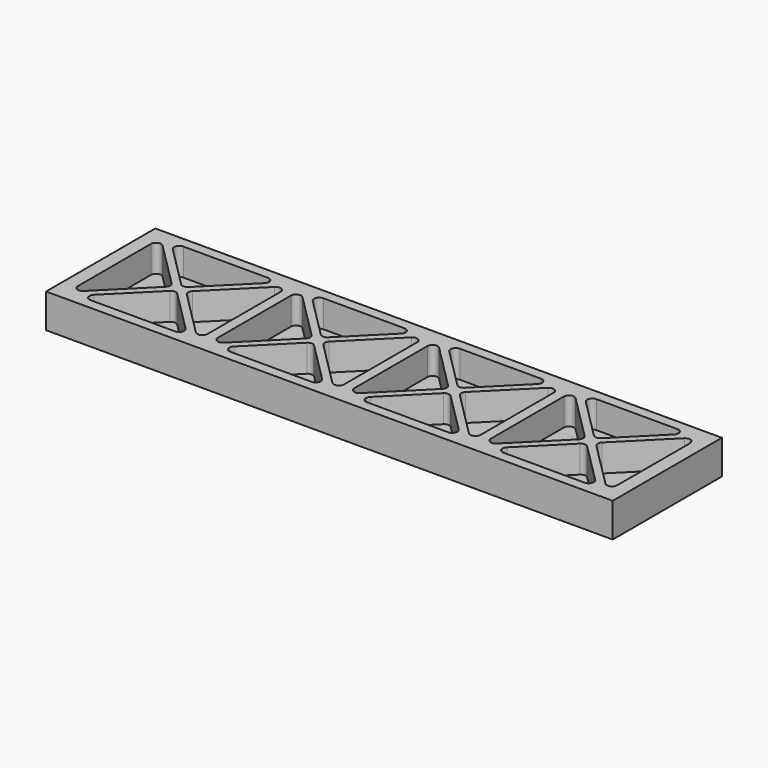
from build123d import *

# Parameters (mm, degrees)
F0_W     = 210.82
F0_H     = 50.8
F1_DEPTH = 12.7
F3_DEPTH = 10.16


with BuildPart() as f1:
    # F0 (on Top) → F1 (new body)
    with BuildSketch(Plane.XY):
        with Locations((105.41, 25.4)):
            Rectangle(F0_W, F0_H)
    extrude(amount=F1_DEPTH)

    # F2 (on face) → F3 (cut)
    with BuildSketch(Plane.XY.offset(12.7)):
        with BuildLine():
            ThreePointArc((8.332038, 43.737962), (6.255988, 44.150914), (5.08, 42.390923))
            Line((5.08, 42.390923), (5.08, 8.409077))
            ThreePointArc((5.08, 8.409077), (6.255988, 6.649086), (8.332038, 7.062038))
            Line((8.332038, 7.062038), (25.322962, 24.052962))
            ThreePointArc((25.322962, 24.052962), (25.880923, 25.4), (25.322962, 26.747038))
            Line((25.322962, 26.747038), (8.332038, 43.737962))
        make_face()
        with BuildLine():
            Line((50.087962, 43.737962), (33.097038, 26.747038))
            ThreePointArc((33.097038, 26.747038), (32.539077, 25.4), (33.097038, 24.052962))
            Line((33.097038, 24.052962), (50.087962, 7.062038))
            ThreePointArc((50.087962, 7.062038), (52.164012, 6.649086), (53.34, 8.409077))
            Line((53.34, 8.409077), (53.34, 42.390923))
            ThreePointArc((53.34, 42.390923), (52.164012, 44.150914), (50.087962, 43.737962))
        make_face()
        with BuildLine():
            ThreePointArc((60.402038, 43.737962), (58.325988, 44.150914), (57.15, 42.390923))
            Line((57.15, 42.390923), (57.15, 8.409077))
            ThreePointArc((57.15, 8.409077), (58.325988, 6.649086), (60.402038, 7.062038))
            Line((60.402038, 7.062038), (77.392962, 24.052962))
            ThreePointArc((77.392962, 24.052962), (77.950923, 25.4), (77.392962, 26.747038))
            Line((77.392962, 26.747038), (60.402038, 43.737962))
        make_face()
        with BuildLine():
            Line((104.14, 8.409077), (104.14, 42.390923))
            ThreePointArc((104.14, 42.390923), (102.964012, 44.150914), (100.887962, 43.737962))
            Line((100.887962, 43.737962), (83.897038, 26.747038))
            ThreePointArc((83.897038, 26.747038), (83.339077, 25.4), (83.897038, 24.052962))
            Line((83.897038, 24.052962), (100.887962, 7.062038))
            ThreePointArc((100.887962, 7.062038), (102.964012, 6.649086), (104.14, 8.409077))
        make_face()
        with BuildLine():
            ThreePointArc((111.202038, 43.737962), (109.125988, 44.150914), (107.95, 42.390923))
            Line((107.95, 42.390923), (107.95, 8.409077))
            ThreePointArc((107.95, 8.409077), (109.125988, 6.649086), (111.202038, 7.062038))
            Line((111.202038, 7.062038), (128.192962, 24.052962))
            ThreePointArc((128.192962, 24.052962), (128.750923, 25.4), (128.192962, 26.747038))
            Line((128.192962, 26.747038), (111.202038, 43.737962))
        make_face()
        with BuildLine():
            Line((154.94, 8.409077), (154.94, 42.390923))
            ThreePointArc((154.94, 42.390923), (153.764012, 44.150914), (151.687962, 43.737962))
            Line((151.687962, 43.737962), (134.697038, 26.747038))
            ThreePointArc((134.697038, 26.747038), (134.139077, 25.4), (134.697038, 24.052962))
            Line((134.697038, 24.052962), (151.687962, 7.062038))
            ThreePointArc((151.687962, 7.062038), (153.764012, 6.649086), (154.94, 8.409077))
        make_face()
        with BuildLine():
            ThreePointArc((162.002038, 43.737962), (159.925988, 44.150914), (158.75, 42.390923))
            Line((158.75, 42.390923), (158.75, 8.409077))
            ThreePointArc((158.75, 8.409077), (159.925988, 6.649086), (162.002038, 7.062038))
            Line((162.002038, 7.062038), (178.992962, 24.052962))
            ThreePointArc((178.992962, 24.052962), (179.550923, 25.4), (178.992962, 26.747038))
            Line((178.992962, 26.747038), (162.002038, 43.737962))
        make_face()
        with BuildLine():
            Line((205.74, 8.409077), (205.74, 42.390923))
            ThreePointArc((205.74, 42.390923), (204.564012, 44.150914), (202.487962, 43.737962))
            Line((202.487962, 43.737962), (185.497038, 26.747038))
            ThreePointArc((185.497038, 26.747038), (184.939077, 25.4), (185.497038, 24.052962))
            Line((185.497038, 24.052962), (202.487962, 7.062038))
            ThreePointArc((202.487962, 7.062038), (204.564012, 6.649086), (205.74, 8.409077))
        make_face()
        with BuildLine():
            Line((44.930923, 46.99), (13.489077, 46.99))
            ThreePointArc((13.489077, 46.99), (11.729086, 45.814012), (12.142038, 43.737962))
            Line((12.142038, 43.737962), (27.862962, 28.017038))
            ThreePointArc((27.862962, 28.017038), (29.21, 27.459077), (30.557038, 28.017038))
            Line((30.557038, 28.017038), (46.277962, 43.737962))
            ThreePointArc((46.277962, 43.737962), (46.690914, 45.814012), (44.930923, 46.99))
        make_face()
        with BuildLine():
            ThreePointArc((12.142038, 7.062038), (11.729086, 4.985988), (13.489077, 3.81))
            Line((13.489077, 3.81), (44.930923, 3.81))
            ThreePointArc((44.930923, 3.81), (46.690914, 4.985988), (46.277962, 7.062038))
            Line((46.277962, 7.062038), (30.557038, 22.782962))
            ThreePointArc((30.557038, 22.782962), (29.21, 23.340923), (27.862962, 22.782962))
            Line((27.862962, 22.782962), (12.142038, 7.062038))
        make_face()
        with BuildLine():
            Line((95.730923, 46.99), (65.559077, 46.99))
            ThreePointArc((65.559077, 46.99), (63.799086, 45.814012), (64.212038, 43.737962))
            Line((64.212038, 43.737962), (79.297962, 28.652038))
            ThreePointArc((79.297962, 28.652038), (80.645, 28.094077), (81.992038, 28.652038))
            Line((81.992038, 28.652038), (97.077962, 43.737962))
            ThreePointArc((97.077962, 43.737962), (97.490914, 45.814012), (95.730923, 46.99))
        make_face()
        with BuildLine():
            ThreePointArc((64.212038, 7.062038), (63.799086, 4.985988), (65.559077, 3.81))
            Line((65.559077, 3.81), (95.730923, 3.81))
            ThreePointArc((95.730923, 3.81), (97.490914, 4.985988), (97.077962, 7.062038))
            Line((97.077962, 7.062038), (81.992038, 22.147962))
            ThreePointArc((81.992038, 22.147962), (80.645, 22.705923), (79.297962, 22.147962))
            Line((79.297962, 22.147962), (64.212038, 7.062038))
        make_face()
        with BuildLine():
            Line((146.530923, 46.99), (116.359077, 46.99))
            ThreePointArc((116.359077, 46.99), (114.599086, 45.814012), (115.012038, 43.737962))
            Line((115.012038, 43.737962), (130.097962, 28.652038))
            ThreePointArc((130.097962, 28.652038), (131.445, 28.094077), (132.792038, 28.652038))
            Line((132.792038, 28.652038), (147.877962, 43.737962))
            ThreePointArc((147.877962, 43.737962), (148.290914, 45.814012), (146.530923, 46.99))
        make_face()
        with BuildLine():
            ThreePointArc((115.012038, 7.062038), (114.599086, 4.985988), (116.359077, 3.81))
            Line((116.359077, 3.81), (146.530923, 3.81))
            ThreePointArc((146.530923, 3.81), (148.290914, 4.985988), (147.877962, 7.062038))
            Line((147.877962, 7.062038), (132.792038, 22.147962))
            ThreePointArc((132.792038, 22.147962), (131.445, 22.705923), (130.097962, 22.147962))
            Line((130.097962, 22.147962), (115.012038, 7.062038))
        make_face()
        with BuildLine():
            Line((197.330923, 46.99), (167.159077, 46.99))
            ThreePointArc((167.159077, 46.99), (165.399086, 45.814012), (165.812038, 43.737962))
            Line((165.812038, 43.737962), (180.897962, 28.652038))
            ThreePointArc((180.897962, 28.652038), (182.245, 28.094077), (183.592038, 28.652038))
            Line((183.592038, 28.652038), (198.677962, 43.737962))
            ThreePointArc((198.677962, 43.737962), (199.090914, 45.814012), (197.330923, 46.99))
        make_face()
        with BuildLine():
            ThreePointArc((165.812038, 7.062038), (165.399086, 4.985988), (167.159077, 3.81))
            Line((167.159077, 3.81), (197.330923, 3.81))
            ThreePointArc((197.330923, 3.81), (199.090914, 4.985988), (198.677962, 7.062038))
            Line((198.677962, 7.062038), (183.592038, 22.147962))
            ThreePointArc((183.592038, 22.147962), (182.245, 22.705923), (180.897962, 22.147962))
            Line((180.897962, 22.147962), (165.812038, 7.062038))
        make_face()
    extrude(amount=-F3_DEPTH, mode=Mode.SUBTRACT)


solid = f1.part
